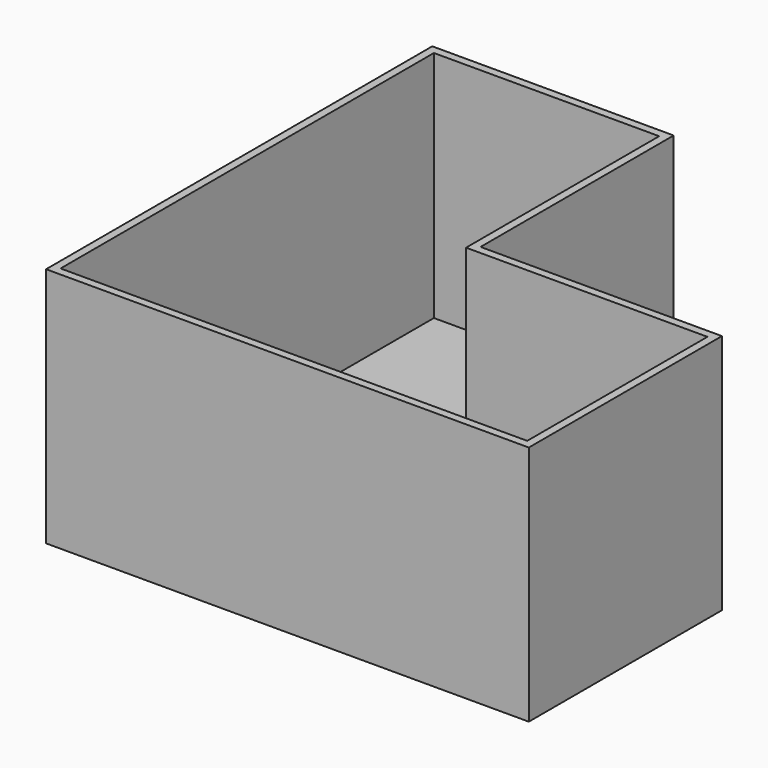
from build123d import *

# Parameters (mm, degrees)
F1_DEPTH = 3000
F2_T     = -100


with BuildPart() as f1:
    # F0 (on Top) → F1 (new body)
    with BuildSketch(Plane.XY):
        Polygon((-6000, 0), (0, 0), (0, 3000), (-3000, 3000), (-3000, 6000), (-6000, 6000), align=None)
    extrude(amount=F1_DEPTH)

    # F2
    f2_openings = [f1.faces().sort_by_distance(p)[0] for p in [
        (-3500, 2500, 3000),
    ]]
    offset(amount=F2_T, openings=f2_openings, kind=Kind.INTERSECTION)


solid = f1.part
